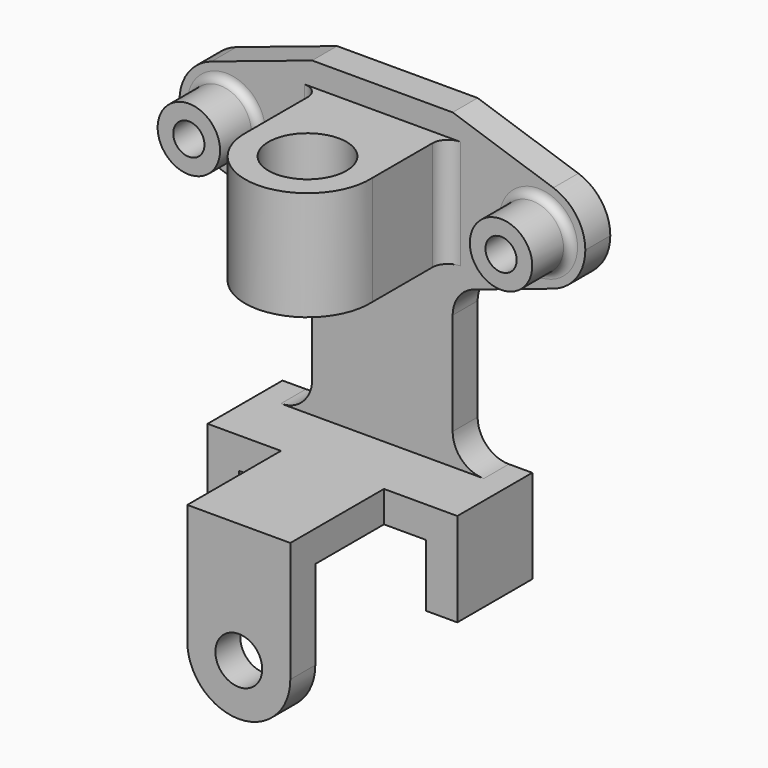
from build123d import *

# Parameters (mm, degrees)
F1_DEPTH  = 20
F2_R      = 20
F3_DEPTH  = 30
F4_DEPTH  = 40
F5_W      = 33
F5_H      = 20
F6_DEPTH  = 55
F7_R      = 15
F8_DEPTH  = 20
F9_D      = 20
F11_R     = 25
F12_DEPTH = 70
F13_R     = 5


with BuildPart() as f1:
    # F0 (on Front) → F1 (new body)
    with BuildSketch(Plane.XZ):
        with BuildLine():
            ThreePointArc((-109.5042586091, -28.4546844701), (-82.4661435827, -24.3426350081), (-70, 0))
            ThreePointArc((-70, 0), (-82.4661435827, 24.3426350081), (-109.5042586091, 28.4546844701))
            ThreePointArc((-109.5042586091, 28.4546844701), (-130, 0), (-109.5042586091, -28.4546844701))
        make_face()
        with BuildLine():
            ThreePointArc((-109.5042586091, 28.4546844701), (-82.4661435827, 24.3426350081), (-70, 0))
            ThreePointArc((-70, 0), (-82.4661435827, -24.3426350081), (-109.5042586091, -28.4546844701))
            Line((-109.5042586091, -28.4546844701), (-58.6638275939, -45.4360923882))
            ThreePointArc((-58.6638275939, -45.4360923882), (-48.7715766613, -52.7166444234), (-45, -64.4058820349))
            Line((-45, -64.4058820349), (-45, -130))
            ThreePointArc((-45, -130), (-50.8578643763, -144.1421356237), (-65, -150))
            Line((-65, -150), (-80, -150))
            Line((-80, -150), (-80, -210))
            Line((-80, -210), (-60, -210))
            Line((-60, -210), (-60, -170))
            Line((-60, -170), (60, -170))
            Line((60, -170), (60, -210))
            Line((60, -210), (80, -210))
            Line((80, -210), (80, -150))
            Line((80, -150), (65, -150))
            ThreePointArc((65, -150), (50.8578643763, -144.1421356237), (45, -130))
            Line((45, -130), (45, -64.4058820349))
            ThreePointArc((45, -64.4058820349), (48.7715766613, -52.7166444234), (58.6638275939, -45.4360923882))
            Line((58.6638275939, -45.4360923882), (109.5042586091, -28.4546844701))
            ThreePointArc((109.5042586091, -28.4546844701), (70, 0), (109.5042586091, 28.4546844701))
            Line((109.5042586091, 28.4546844701), (45, 50))
            Line((45, 50), (0, 50))
            Line((0, 50), (-45, 50))
            Line((-45, 50), (-109.5042586091, 28.4546844701))
        make_face()
        with BuildLine():
            ThreePointArc((130, 0), (124.3426350081, 17.5338564173), (109.5042586091, 28.4546844701))
            ThreePointArc((109.5042586091, 28.4546844701), (70, 0), (109.5042586091, -28.4546844701))
            ThreePointArc((109.5042586091, -28.4546844701), (124.3426350081, -17.5338564173), (130, 0))
        make_face()
    extrude(amount=F1_DEPTH)

    # F2 (on face) → F3 (join)
    with BuildSketch(Plane.XZ.offset(20)):
        with Locations((100, 0)):
            Circle(F2_R)
        with Locations((-100, 0)):
            Circle(F2_R)
    extrude(amount=F3_DEPTH)

    # F2 (on face) → F4 (join)
    with BuildSketch(Plane.XZ.offset(20)):
        Polygon((-65, -150), (-80, -150), (-80, -210), (-60, -210), (-60, -170), (60, -170), (60, -210), (80, -210), (80, -150), (65, -150), align=None)
    extrude(amount=F4_DEPTH)

    # F5 (on face) → F6 (join)
    with BuildSketch(Plane.XZ.offset(60)):
        with Locations((16.5, -160)):
            Rectangle(F5_W, F5_H)
        with Locations((-16.5, -160)):
            Rectangle(F5_W, F5_H)
    extrude(amount=F6_DEPTH)

    # F7 (on face) → F8 (join)
    with BuildSketch(Plane.XZ.offset(115)):
        with BuildLine():
            ThreePointArc((-33, -227), (0, -260), (33, -227))
            ThreePointArc((33, -227), (0, -194), (-33, -227))
        make_face()
        with Locations((0, -227)):
            Circle(F7_R, mode=Mode.SUBTRACT)
        with BuildLine():
            ThreePointArc((-33, -227), (0, -194), (33, -227))
            Line((33, -227), (33, -170))
            Line((33, -170), (33, -150))
            Line((33, -150), (-33, -150))
            Line((-33, -150), (-33, -170))
            Line((-33, -170), (-33, -227))
        make_face()
    extrude(amount=F8_DEPTH)

    # F9 (through all)
    with Locations(Plane(origin=(0, 0, 0), x_dir=(1, 0, 0), z_dir=(0, 1, 0))):
        with Locations((100, 0), (-100, 0)):
            Hole(F9_D / 2)

    # F11 (on offset) → F12 (join)
    with BuildSketch(Plane.XY.offset(35)):
        with BuildLine():
            ThreePointArc((-39.9505821476, -78.0122912513), (-0.9941614801, -119.9876436284), (40, -80))
            ThreePointArc((40, -80), (39.9876436284, -79.0058385199), (39.9505821476, -78.0122912513))
            ThreePointArc((39.9505821476, -78.0122912513), (0, -40), (-39.9505821476, -78.0122912513))
        make_face()
        with Locations((0, -80)):
            Circle(F11_R, mode=Mode.SUBTRACT)
        with BuildLine():
            ThreePointArc((-39.9505821476, -78.0122912513), (0, -40), (39.9505821476, -78.0122912513))
            Line((39.9505821476, -78.0122912513), (39.9505821476, -30))
            ThreePointArc((39.9505821476, -30), (42.8795143357, -22.9289321881), (49.9505821476, -20))
            Line((49.9505821476, -20), (-49.9505821476, -20))
            ThreePointArc((-49.9505821476, -20), (-42.8795143357, -22.9289321881), (-39.9505821476, -30))
            Line((-39.9505821476, -30), (-39.9505821476, -78.0122912513))
        make_face()
    extrude(amount=-F12_DEPTH)

    # F13
    f13_edges = [f1.edges().sort_by_distance(p)[0] for p in [
        (-120, -20, 0),
        (80, -20, 0),
    ]]
    fillet(f13_edges, radius=F13_R)


solid = f1.part
